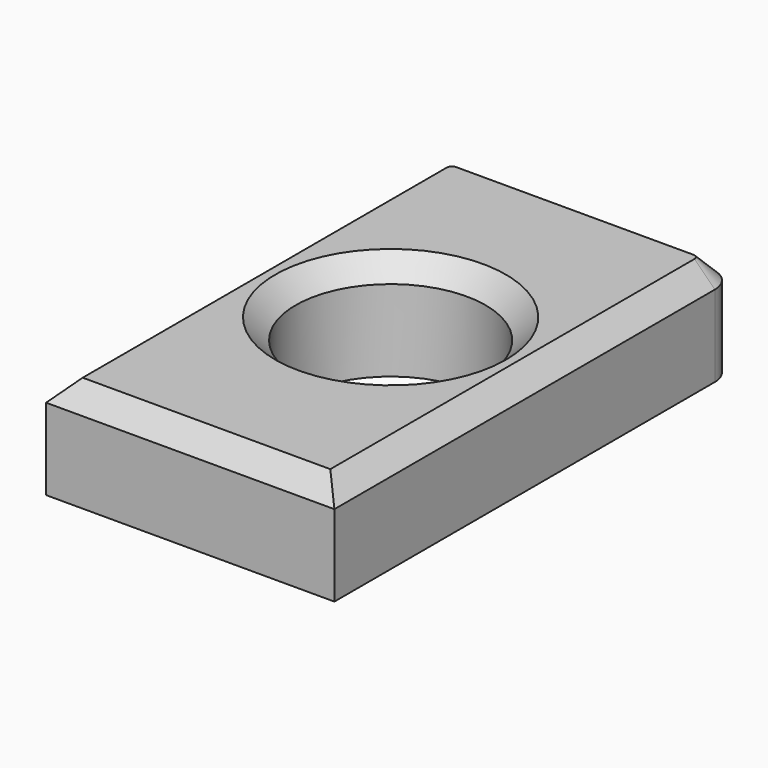
from build123d import *

# Parameters (mm, degrees)
F0_R     = 23.71864
F1_DEPTH = 25.4
F2_SIZE2 = 5.08
F2_SIZE  = 5.08


with BuildPart() as f1:
    # F0 (on Top) → F1 (new body)
    with BuildSketch(Plane.XY):
        with BuildLine():
            Line((-35.99517, -62.541589), (35.99517, -62.541589))
            Line((35.99517, -62.541589), (35.99517, 56.191589))
            ThreePointArc((35.99517, 56.191589), (34.135299, 60.681717), (29.64517, 62.541589))
            Line((29.64517, 62.541589), (-29.64517, 62.541589))
            ThreePointArc((-29.64517, 62.541589), (-34.135299, 60.681717), (-35.99517, 56.191589))
            Line((-35.99517, 56.191589), (-35.99517, -62.541589))
        make_face()
        Circle(F0_R, mode=Mode.SUBTRACT)
    extrude(amount=F1_DEPTH)

    # F2
    f2_edges = [f1.edges().sort_by_distance(p)[0] for p in [
        (-35.99517, -3.175, 25.4),
        (0, -62.541589, 25.4),
        (35.99517, -3.175, 25.4),
        (34.135299, 60.681717, 25.4),
        (0, 62.541589, 25.4),
        (-34.135299, 60.681717, 25.4),
        (-23.71864, 0, 25.4),
    ]]
    chamfer(f2_edges, length=F2_SIZE, length2=F2_SIZE2)


solid = f1.part
